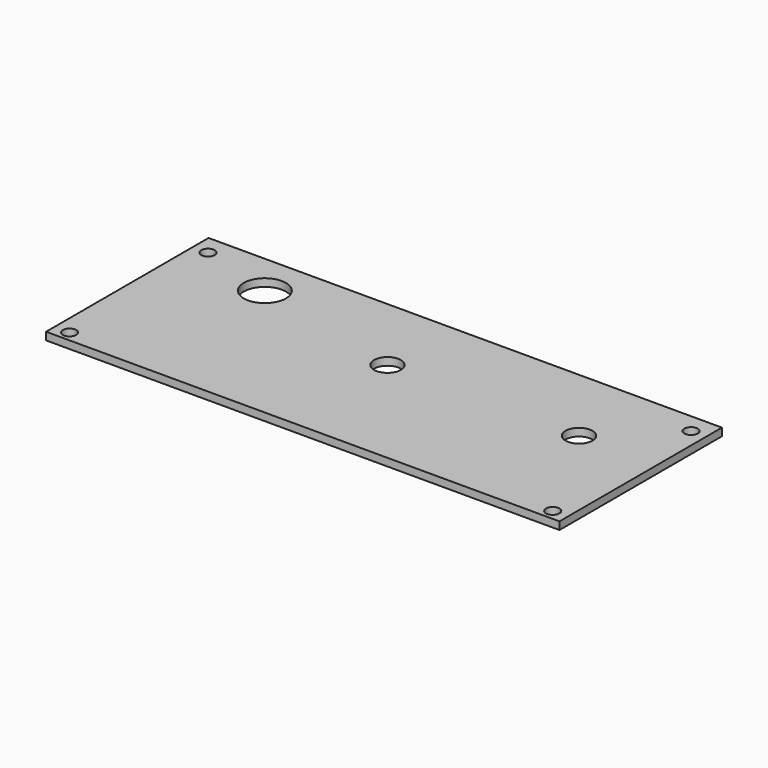
from build123d import *

# Parameters (mm, degrees)
SKETCH_W   = 134
SKETCH_H   = 53
SKETCH_R   = 1.75
SKETCH_R_2 = 3.5
SKETCH_R_3 = 5.5
PAD_DEPTH  = 2


with BuildPart() as part:
    # Sketch → Pad (new body)
    with BuildSketch(Plane.XY):
        with Locations((67, 26.5)):
            Rectangle(SKETCH_W, SKETCH_H)
        with Locations((3.95, 47.875)):
            Circle(SKETCH_R, mode=Mode.SUBTRACT)
        with Locations((3.95, 2.725)):
            Circle(SKETCH_R, mode=Mode.SUBTRACT)
        with Locations((130.05, 2.725)):
            Circle(SKETCH_R, mode=Mode.SUBTRACT)
        with Locations((130.05, 47.875)):
            Circle(SKETCH_R, mode=Mode.SUBTRACT)
        with Locations((113.5, 32)):
            Circle(SKETCH_R_2, mode=Mode.SUBTRACT)
        with Locations((63.5, 32)):
            Circle(SKETCH_R_2, mode=Mode.SUBTRACT)
        with Locations((23.5, 42)):
            Circle(SKETCH_R_3, mode=Mode.SUBTRACT)
    extrude(amount=PAD_DEPTH)


solid = part.part
